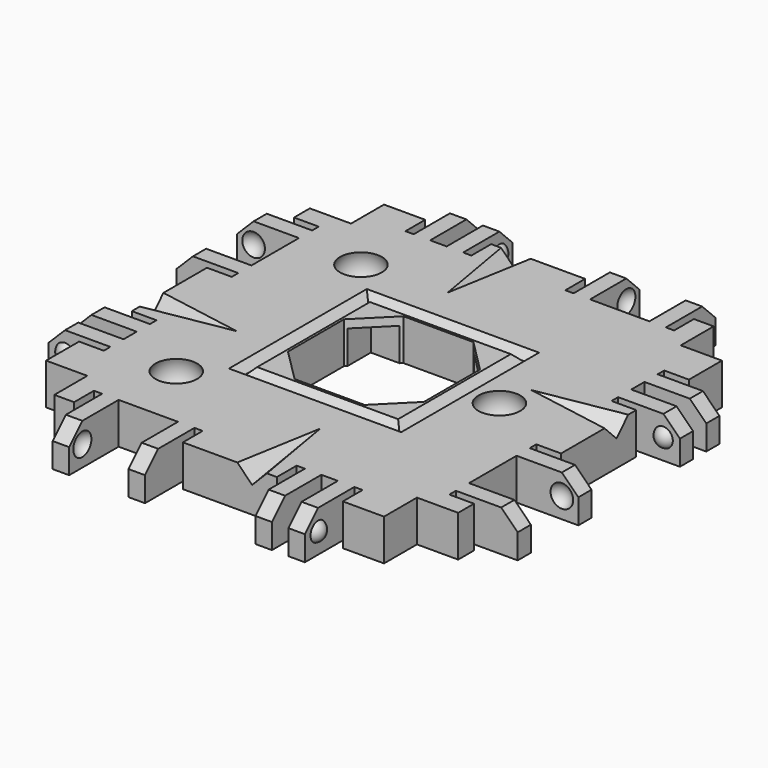
from build123d import *

# Parameters (mm, degrees)
BOX208_W               = 10
BOX208_H               = 15
BOX208_DEPTH           = 10
BOX208_ROLL_ANGLE      = 14.001942
BOX208_PITCH_ANGLE     = -44.136029
BOX208_PLACEMENT_ANGLE = -99.851076
BOX207_W               = 10
BOX207_H               = 15
BOX207_DEPTH           = 10
BOX207_ROLL_ANGLE      = 14.001942
BOX207_PITCH_ANGLE     = -44.136029
BOX207_PLACEMENT_ANGLE = 170.148924
BOX206_W               = 10
BOX206_H               = 15
BOX206_DEPTH           = 10
BOX206_ROLL_ANGLE      = 14.001942
BOX206_PITCH_ANGLE     = -44.136029
BOX206_PLACEMENT_ANGLE = 80.148924
BOX086_W               = 10
BOX086_H               = 15
BOX086_DEPTH           = 10
BOX086_ROLL_ANGLE      = 14.001942
BOX086_PITCH_ANGLE     = -44.136029
BOX086_PLACEMENT_ANGLE = -9.851076
CYLINDER025_R          = 1.7
CYLINDER025_DEPTH      = 10
CYLINDER026_R          = 1.7
CYLINDER026_DEPTH      = 10
CYLINDER024_R          = 1.7
CYLINDER024_DEPTH      = 10
BOX085_W               = 16
BOX085_H               = 16
BOX085_DEPTH           = 15
BOX076_W               = 16.5
BOX076_H               = 16.5
BOX076_DEPTH           = 15
CHAMFER008_SIZE        = 4
BOX084_W               = 17
BOX084_H               = 17
BOX084_DEPTH           = 14
BOX083_W               = 21
BOX083_H               = 21
BOX083_DEPTH           = 10
CHAMFER007_SIZE        = 0.95
BOX_W                  = 40
BOX_H                  = 40
BOX_DEPTH              = 5
BOX169_W               = 13
BOX169_H               = 40
BOX169_DEPTH           = 10
BOX169_PITCH_ANGLE     = -45
BOX177_W               = 12
BOX177_H               = 44
BOX177_DEPTH           = 10
BOX176_W               = 20
BOX176_H               = 44
BOX176_DEPTH           = 10
BOX172_W               = 4
BOX172_H               = 1
BOX172_DEPTH           = 7
BOX174_W               = 4
BOX174_H               = 1
BOX174_DEPTH           = 7
BOX171_W               = 4
BOX171_H               = 2
BOX171_DEPTH           = 7
BOX173_W               = 4
BOX173_H               = 1
BOX173_DEPTH           = 7
BOX170_W               = 4
BOX170_H               = 1
BOX170_DEPTH           = 7
BOX175_W               = 4
BOX175_H               = 7.2
BOX175_DEPTH           = 7
BOX165_W               = 10
BOX165_H               = 2
BOX165_DEPTH           = 7
BOX166_W               = 10
BOX166_H               = 2
BOX166_DEPTH           = 7
BOX167_W               = 10
BOX167_H               = 2
BOX167_DEPTH           = 7
BOX168_W               = 10
BOX168_H               = 2
BOX168_DEPTH           = 7
BOX164_W               = 5
BOX164_H               = 40
BOX164_DEPTH           = 7
CUT069_PLACEMENT_ANGLE = 90
BOX191_W               = 13
BOX191_H               = 40
BOX191_DEPTH           = 10
BOX191_PITCH_ANGLE     = -45
BOX187_W               = 12
BOX187_H               = 44
BOX187_DEPTH           = 10
BOX180_W               = 20
BOX180_H               = 44
BOX180_DEPTH           = 10
BOX182_W               = 4
BOX182_H               = 1
BOX182_DEPTH           = 7
BOX184_W               = 4
BOX184_H               = 1
BOX184_DEPTH           = 7
BOX186_W               = 4
BOX186_H               = 2
BOX186_DEPTH           = 7
BOX185_W               = 4
BOX185_H               = 1
BOX185_DEPTH           = 7
BOX189_W               = 4
BOX189_H               = 1
BOX189_DEPTH           = 7
BOX181_W               = 4
BOX181_H               = 7.2
BOX181_DEPTH           = 7
BOX190_W               = 10
BOX190_H               = 2
BOX190_DEPTH           = 7
BOX179_W               = 10
BOX179_H               = 2
BOX179_DEPTH           = 7
BOX183_W               = 10
BOX183_H               = 2
BOX183_DEPTH           = 7
BOX188_W               = 10
BOX188_H               = 2
BOX188_DEPTH           = 7
BOX178_W               = 5
BOX178_H               = 40
BOX178_DEPTH           = 7
CUT074_PLACEMENT_ANGLE = 180
BOX193_W               = 13
BOX193_H               = 40
BOX193_DEPTH           = 10
BOX193_PITCH_ANGLE     = -45
BOX203_W               = 12
BOX203_H               = 44
BOX203_DEPTH           = 10
BOX194_W               = 20
BOX194_H               = 44
BOX194_DEPTH           = 10
BOX198_W               = 4
BOX198_H               = 1
BOX198_DEPTH           = 7
BOX204_W               = 4
BOX204_H               = 1
BOX204_DEPTH           = 7
BOX201_W               = 4
BOX201_H               = 2
BOX201_DEPTH           = 7
BOX200_W               = 4
BOX200_H               = 1
BOX200_DEPTH           = 7
BOX197_W               = 4
BOX197_H               = 1
BOX197_DEPTH           = 7
BOX199_W               = 4
BOX199_H               = 7.2
BOX199_DEPTH           = 7
BOX192_W               = 10
BOX192_H               = 2
BOX192_DEPTH           = 7
BOX195_W               = 10
BOX195_H               = 2
BOX195_DEPTH           = 7
BOX202_W               = 10
BOX202_H               = 2
BOX202_DEPTH           = 7
BOX205_W               = 10
BOX205_H               = 2
BOX205_DEPTH           = 7
BOX196_W               = 5
BOX196_H               = 40
BOX196_DEPTH           = 7
CUT079_PLACEMENT_ANGLE = -90
BOX006_W               = 13
BOX006_H               = 40
BOX006_DEPTH           = 10
BOX006_PITCH_ANGLE     = -45
BOX149_W               = 12
BOX149_H               = 44
BOX149_DEPTH           = 10
BOX013_W               = 20
BOX013_H               = 44
BOX013_DEPTH           = 10
BOX009_W               = 4
BOX009_H               = 1
BOX009_DEPTH           = 7
BOX011_W               = 4
BOX011_H               = 1
BOX011_DEPTH           = 7
BOX008_W               = 4
BOX008_H               = 2
BOX008_DEPTH           = 7
BOX010_W               = 4
BOX010_H               = 1
BOX010_DEPTH           = 7
BOX007_W               = 4
BOX007_H               = 1
BOX007_DEPTH           = 7
BOX012_W               = 4
BOX012_H               = 7.2
BOX012_DEPTH           = 7
BOX002_W               = 10
BOX002_H               = 2
BOX002_DEPTH           = 7
BOX003_W               = 10
BOX003_H               = 2
BOX003_DEPTH           = 7
BOX004_W               = 10
BOX004_H               = 2
BOX004_DEPTH           = 7
BOX005_W               = 10
BOX005_H               = 2
BOX005_DEPTH           = 7
BOX001_W               = 5
BOX001_H               = 40
BOX001_DEPTH           = 7


with BuildPart() as cube179:
    # Box208 → Box208 (new body)
    with BuildSketch(Plane.XY):
        with Locations((5, 7.5)):
            Rectangle(BOX208_W, BOX208_H)
    extrude(amount=BOX208_DEPTH)


with BuildPart() as cube179_1:
    # Box208 roll: moved
    add(cube179.part.rotate(Axis((0, 0, 0), (1, 0, 0)), BOX208_ROLL_ANGLE))


with BuildPart() as cube179_2:
    # Box208 pitch: moved
    add(cube179_1.part.rotate(Axis((0, 0, 0), (0, 1, 0)), BOX208_PITCH_ANGLE))


with BuildPart() as cube179_3:
    # Box208 placement: moved
    add(cube179_2.part.moved(Location((-6, 16, 1))).rotate(Axis((-6, 16, 1), (0, 0, 1)), BOX208_PLACEMENT_ANGLE))


with BuildPart() as cube178:
    # Box207 → Box207 (new body)
    with BuildSketch(Plane.XY):
        with Locations((5, 7.5)):
            Rectangle(BOX207_W, BOX207_H)
    extrude(amount=BOX207_DEPTH)


with BuildPart() as cube178_1:
    # Box207 roll: moved
    add(cube178.part.rotate(Axis((0, 0, 0), (1, 0, 0)), BOX207_ROLL_ANGLE))


with BuildPart() as cube178_2:
    # Box207 pitch: moved
    add(cube178_1.part.rotate(Axis((0, 0, 0), (0, 1, 0)), BOX207_PITCH_ANGLE))


with BuildPart() as cube178_3:
    # Box207 placement: moved
    add(cube178_2.part.moved(Location((16, 46, 1))).rotate(Axis((16, 46, 1), (0, 0, 1)), BOX207_PLACEMENT_ANGLE))


with BuildPart() as cube177:
    # Box206 → Box206 (new body)
    with BuildSketch(Plane.XY):
        with Locations((5, 7.5)):
            Rectangle(BOX206_W, BOX206_H)
    extrude(amount=BOX206_DEPTH)


with BuildPart() as cube177_1:
    # Box206 roll: moved
    add(cube177.part.rotate(Axis((0, 0, 0), (1, 0, 0)), BOX206_ROLL_ANGLE))


with BuildPart() as cube177_2:
    # Box206 pitch: moved
    add(cube177_1.part.rotate(Axis((0, 0, 0), (0, 1, 0)), BOX206_PITCH_ANGLE))


with BuildPart() as cube177_3:
    # Box206 placement: moved
    add(cube177_2.part.moved(Location((46, 24, 1))).rotate(Axis((46, 24, 1), (0, 0, 1)), BOX206_PLACEMENT_ANGLE))


with BuildPart() as glue_dents:
    # Box086 → Box086 (new body)
    with BuildSketch(Plane.XY):
        with Locations((5, 7.5)):
            Rectangle(BOX086_W, BOX086_H)
    extrude(amount=BOX086_DEPTH)


with BuildPart() as glue_dents_1:
    # Box086 roll: moved
    add(glue_dents.part.rotate(Axis((0, 0, 0), (1, 0, 0)), BOX086_ROLL_ANGLE))


with BuildPart() as glue_dents_2:
    # Box086 pitch: moved
    add(glue_dents_1.part.rotate(Axis((0, 0, 0), (0, 1, 0)), BOX086_PITCH_ANGLE))


with BuildPart() as glue_dents_3:
    # Box086 placement: moved
    add(glue_dents_2.part.moved(Location((24, -6, 1))).rotate(Axis((24, -6, 1), (0, 0, 1)), BOX086_PLACEMENT_ANGLE))

    # Fusion078: union Cube179, Cube178, Cube177
    add(cube179_3.part)
    add(cube178_3.part)
    add(cube177_3.part)


with BuildPart() as cylinder025:
    # Cylinder025 → Cylinder025 (new body)
    with BuildSketch(Plane(origin=(34, 20, -5), x_dir=(1, 0, 0), z_dir=(0, 0, 1))):
        Circle(CYLINDER025_R)
    extrude(amount=CYLINDER025_DEPTH)


with BuildPart() as cylinder026:
    # Cylinder026 → Cylinder026 (new body)
    with BuildSketch(Plane(origin=(6, 34, -5), x_dir=(1, 0, 0), z_dir=(0, 0, 1))):
        Circle(CYLINDER026_R)
    extrude(amount=CYLINDER026_DEPTH)


with BuildPart() as screw_holes_to_remove_ball_mags:
    # Cylinder024 → Cylinder024 (new body)
    with BuildSketch(Plane(origin=(6, 6, -5), x_dir=(1, 0, 0), z_dir=(0, 0, 1))):
        Circle(CYLINDER024_R)
    extrude(amount=CYLINDER024_DEPTH)

    # Fusion052: union Cylinder025, Cylinder026
    add(cylinder025.part)
    add(cylinder026.part)


with BuildPart() as cube069:
    # Box085 → Box085 (new body)
    with BuildSketch(Plane(origin=(12, 12, -13), x_dir=(1, 0, 0), z_dir=(0, 0, 1))):
        with Locations((8, 8)):
            Rectangle(BOX085_W, BOX085_H)
    extrude(amount=BOX085_DEPTH)


with BuildPart() as chamfer008:
    # Box076 → Box076 (new body)
    with BuildSketch(Plane(origin=(11.75, 11.75, -3), x_dir=(1, 0, 0), z_dir=(0, 0, 1))):
        with Locations((8.25, 8.25)):
            Rectangle(BOX076_W, BOX076_H)
    extrude(amount=BOX076_DEPTH)

    # Chamfer008
    chamfer008_edges = [chamfer008.edges().sort_by_distance(p)[0] for p in [
        (11.75, 11.75, 4.5),
        (11.75, 28.25, 4.5),
        (28.25, 11.75, 4.5),
        (28.25, 28.25, 4.5),
    ]]
    chamfer(chamfer008_edges, length=CHAMFER008_SIZE)


with BuildPart() as cube068:
    # Box084 → Box084 (new body)
    with BuildSketch(Plane(origin=(11.5, 11.5, 0), x_dir=(1, 0, 0), z_dir=(0, 0, 1))):
        with Locations((8.5, 8.5)):
            Rectangle(BOX084_W, BOX084_H)
    extrude(amount=BOX084_DEPTH)


with BuildPart() as chamfer007:
    # Box083 → Box083 (new body)
    with BuildSketch(Plane(origin=(9.5, 9.5, 2.1), x_dir=(1, 0, 0), z_dir=(0, 0, 1))):
        with Locations((10.5, 10.5)):
            Rectangle(BOX083_W, BOX083_H)
    extrude(amount=BOX083_DEPTH)

    # Cut020: cut Cube068
    add(cube068.part, mode=Mode.SUBTRACT)

    # Chamfer007
    chamfer007_edges = [chamfer007.edges().sort_by_distance(p)[0] for p in [
        (9.5, 20, 2.1),
        (20, 9.5, 2.1),
        (20, 30.5, 2.1),
        (30.5, 20, 2.1),
        (20, 11.5, 2.1),
        (28.5, 20, 2.1),
        (20, 28.5, 2.1),
        (11.5, 20, 2.1),
    ]]
    chamfer(chamfer007_edges, length=CHAMFER007_SIZE)


with BuildPart() as sphere005:
    # Sphere005 → Sphere005 (revolve)
    with BuildSketch(Plane(origin=(34, 20, 1.7), x_dir=(1, 0, 0), z_dir=(0, -1, 0))):
        with BuildLine():
            ThreePointArc((0, -2.85), (2.85, 0), (0, 2.85))
            Line((0, 2.85), (0, -2.85))
        make_face()
    revolve(axis=Axis((34, 20, 1.7), (0, 0, 1)))


with BuildPart() as sphere003:
    # Sphere003 → Sphere003 (revolve)
    with BuildSketch(Plane(origin=(6, 34, 1.7), x_dir=(1, 0, 0), z_dir=(0, -1, 0))):
        with BuildLine():
            ThreePointArc((0, -2.85), (2.85, 0), (0, 2.85))
            Line((0, 2.85), (0, -2.85))
        make_face()
    revolve(axis=Axis((6, 34, 1.7), (0, 0, 1)))


with BuildPart() as fusion004:
    # Sphere → Sphere (revolve)
    with BuildSketch(Plane(origin=(6, 6, 1.7), x_dir=(1, 0, 0), z_dir=(0, -1, 0))):
        with BuildLine():
            ThreePointArc((0, -2.85), (2.85, 0), (0, 2.85))
            Line((0, 2.85), (0, -2.85))
        make_face()
    revolve(axis=Axis((6, 6, 1.7), (0, 0, 1)))

    # Fusion004: union Sphere005, Sphere003
    add(sphere005.part)
    add(sphere003.part)


with BuildPart() as cut080:
    # Box → Box (new body)
    with BuildSketch(Plane.XY.offset(-2)):
        with Locations((20, 20)):
            Rectangle(BOX_W, BOX_H)
    extrude(amount=BOX_DEPTH)

    # Cut003: cut Fusion004
    add(fusion004.part, mode=Mode.SUBTRACT)

    # Cut047: cut Chamfer007
    add(chamfer007.part, mode=Mode.SUBTRACT)

    # Cut048: cut Chamfer008
    add(chamfer008.part, mode=Mode.SUBTRACT)

    # Cut049: cut Cube069
    add(cube069.part, mode=Mode.SUBTRACT)

    # Cut080: cut Screw Holes to remove ball mags
    add(screw_holes_to_remove_ball_mags.part, mode=Mode.SUBTRACT)


with BuildPart() as chamfer_cube002:
    # Box169 → Box169 (new body)
    with BuildSketch(Plane.XY):
        with Locations((6.5, 20)):
            Rectangle(BOX169_W, BOX169_H)
    extrude(amount=BOX169_DEPTH)


with BuildPart() as chamfer_cube002_1:
    # Box169 pitch: moved
    add(chamfer_cube002.part.rotate(Axis((0, 0, 0), (0, 1, 0)), BOX169_PITCH_ANGLE))


with BuildPart() as chamfer_cube002_2:
    # Box169 placement: moved
    add(chamfer_cube002_1.part.moved(Location((-11.69, 0, -1.19))))


with BuildPart() as re_level_edge_clip_block005:
    # Box177 → Box177 (new body)
    with BuildSketch(Plane(origin=(-21.5, -2, -7), x_dir=(1, 0, 0), z_dir=(0, 0, 1))):
        with Locations((6, 22)):
            Rectangle(BOX177_W, BOX177_H)
    extrude(amount=BOX177_DEPTH)


with BuildPart() as re_level_edge_clip_block004:
    # Box176 → Box176 (new body)
    with BuildSketch(Plane(origin=(-19, -2, 3), x_dir=(1, 0, 0), z_dir=(0, 0, 1))):
        with Locations((10, 22)):
            Rectangle(BOX176_W, BOX176_H)
    extrude(amount=BOX176_DEPTH)


with BuildPart() as cube151:
    # Box172 → Box172 (new body)
    with BuildSketch(Plane(origin=(-6, 12, -2), x_dir=(1, 0, 0), z_dir=(0, 0, 1))):
        with Locations((2, 0.5)):
            Rectangle(BOX172_W, BOX172_H)
    extrude(amount=BOX172_DEPTH)


with BuildPart() as cube153:
    # Box174 → Box174 (new body)
    with BuildSketch(Plane(origin=(-6, 36.6, -2), x_dir=(1, 0, 0), z_dir=(0, 0, 1))):
        with Locations((2, 0.5)):
            Rectangle(BOX174_W, BOX174_H)
    extrude(amount=BOX174_DEPTH)


with BuildPart() as cube150:
    # Box171 → Box171 (new body)
    with BuildSketch(Plane(origin=(-6, 8, -2), x_dir=(1, 0, 0), z_dir=(0, 0, 1))):
        with Locations((2, 1)):
            Rectangle(BOX171_W, BOX171_H)
    extrude(amount=BOX171_DEPTH)


with BuildPart() as cube152:
    # Box173 → Box173 (new body)
    with BuildSketch(Plane(origin=(-6, 24.4, -2), x_dir=(1, 0, 0), z_dir=(0, 0, 1))):
        with Locations((2, 0.5)):
            Rectangle(BOX173_W, BOX173_H)
    extrude(amount=BOX173_DEPTH)


with BuildPart() as cube149:
    # Box170 → Box170 (new body)
    with BuildSketch(Plane(origin=(-6, 5, -2), x_dir=(1, 0, 0), z_dir=(0, 0, 1))):
        with Locations((2, 0.5)):
            Rectangle(BOX170_W, BOX170_H)
    extrude(amount=BOX170_DEPTH)


with BuildPart() as extra_holes_for_clips002:
    # Box175 → Box175 (new body)
    with BuildSketch(Plane(origin=(-6, 27.4, -2), x_dir=(1, 0, 0), z_dir=(0, 0, 1))):
        with Locations((2, 3.6)):
            Rectangle(BOX175_W, BOX175_H)
    extrude(amount=BOX175_DEPTH)

    # Fusion061: union Cube151, Cube153, Cube150, Cube152, Cube149
    add(cube151.part)
    add(cube153.part)
    add(cube150.part)
    add(cube152.part)
    add(cube149.part)


with BuildPart() as sphere058:
    # Sphere058 → Sphere058 (revolve)
    with BuildSketch(Plane(origin=(-7.5, 34, 0.5), x_dir=(1, 0, 0), z_dir=(0, -1, 0))):
        with BuildLine():
            ThreePointArc((0, -1.5), (1.5, 0), (0, 1.5))
            Line((0, 1.5), (0, -1.5))
        make_face()
    revolve(axis=Axis((-7.5, 34, 0.5), (0, 0, 1)))


with BuildPart() as holes002:
    # Sphere057 → Sphere057 (revolve)
    with BuildSketch(Plane(origin=(-7.5, 28, 0.5), x_dir=(1, 0, 0), z_dir=(0, -1, 0))):
        with BuildLine():
            ThreePointArc((0, -1.5), (1.5, 0), (0, 1.5))
            Line((0, 1.5), (0, -1.5))
        make_face()
    revolve(axis=Axis((-7.5, 28, 0.5), (0, 0, 1)))

    # Fusion063: union Sphere058
    add(sphere058.part)


with BuildPart() as cube145:
    # Box165 → Box165 (new body)
    with BuildSketch(Plane(origin=(-15, 6, -2), x_dir=(1, 0, 0), z_dir=(0, 0, 1))):
        with Locations((5, 1)):
            Rectangle(BOX165_W, BOX165_H)
    extrude(amount=BOX165_DEPTH)


with BuildPart() as cube146:
    # Box166 → Box166 (new body)
    with BuildSketch(Plane(origin=(-15, 10, -2), x_dir=(1, 0, 0), z_dir=(0, 0, 1))):
        with Locations((5, 1)):
            Rectangle(BOX166_W, BOX166_H)
    extrude(amount=BOX166_DEPTH)


with BuildPart() as cube147:
    # Box167 → Box167 (new body)
    with BuildSketch(Plane(origin=(-15, 25.4, -2), x_dir=(1, 0, 0), z_dir=(0, 0, 1))):
        with Locations((5, 1)):
            Rectangle(BOX167_W, BOX167_H)
    extrude(amount=BOX167_DEPTH)


with BuildPart() as cube148:
    # Box168 → Box168 (new body)
    with BuildSketch(Plane(origin=(-15, 34.6, -2), x_dir=(1, 0, 0), z_dir=(0, 0, 1))):
        with Locations((5, 1)):
            Rectangle(BOX168_W, BOX168_H)
    extrude(amount=BOX168_DEPTH)


with BuildPart() as fusion064:
    # Box164 → Box164 (new body)
    with BuildSketch(Plane(origin=(-5, 0, -2), x_dir=(1, 0, 0), z_dir=(0, 0, 1))):
        with Locations((2.5, 20)):
            Rectangle(BOX164_W, BOX164_H)
    extrude(amount=BOX164_DEPTH)

    # Fusion064: union Cube145, Cube146, Cube147, Cube148
    add(cube145.part)
    add(cube146.part)
    add(cube147.part)
    add(cube148.part)


with BuildPart() as sphere056:
    # Sphere056 → Sphere056 (revolve)
    with BuildSketch(Plane(origin=(-7.5, 11.5, 0.5), x_dir=(1, 0, 0), z_dir=(0, -1, 0))):
        with BuildLine():
            ThreePointArc((0, -1.25), (1.25, 0), (0, 1.25))
            Line((0, 1.25), (0, -1.25))
        make_face()
    revolve(axis=Axis((-7.5, 11.5, 0.5), (0, 0, 1)))


with BuildPart() as edge_clips001:
    # Sphere055 → Sphere055 (revolve)
    with BuildSketch(Plane(origin=(-7.5, 6.5, 0.5), x_dir=(1, 0, 0), z_dir=(0, -1, 0))):
        with BuildLine():
            ThreePointArc((0, -1.25), (1.25, 0), (0, 1.25))
            Line((0, 1.25), (0, -1.25))
        make_face()
    revolve(axis=Axis((-7.5, 6.5, 0.5), (0, 0, 1)))

    # Fusion062: union Sphere056
    add(sphere056.part)

    # Fusion065: union Fusion064
    add(fusion064.part)

    # Cut065: cut Holes002
    add(holes002.part, mode=Mode.SUBTRACT)

    # Cut066: cut Extra Holes for Clips002
    add(extra_holes_for_clips002.part, mode=Mode.SUBTRACT)

    # Cut067: cut Re-level Edge Clip Block004
    add(re_level_edge_clip_block004.part, mode=Mode.SUBTRACT)

    # Cut068: cut Re-level Edge Clip Block005
    add(re_level_edge_clip_block005.part, mode=Mode.SUBTRACT)

    # Cut069: cut Chamfer Cube002
    add(chamfer_cube002_2.part, mode=Mode.SUBTRACT)


with BuildPart() as edge_clips001_1:
    # Cut069 placement: moved
    add(edge_clips001.part.moved(Location((40, 0, 0))).rotate(Axis((40, 0, 0), (0, 0, 1)), CUT069_PLACEMENT_ANGLE))


with BuildPart() as chamfer_cube003:
    # Box191 → Box191 (new body)
    with BuildSketch(Plane.XY):
        with Locations((6.5, 20)):
            Rectangle(BOX191_W, BOX191_H)
    extrude(amount=BOX191_DEPTH)


with BuildPart() as chamfer_cube003_1:
    # Box191 pitch: moved
    add(chamfer_cube003.part.rotate(Axis((0, 0, 0), (0, 1, 0)), BOX191_PITCH_ANGLE))


with BuildPart() as chamfer_cube003_2:
    # Box191 placement: moved
    add(chamfer_cube003_1.part.moved(Location((-11.69, 0, -1.19))))


with BuildPart() as re_level_edge_clip_block007:
    # Box187 → Box187 (new body)
    with BuildSketch(Plane(origin=(-21.5, -2, -7), x_dir=(1, 0, 0), z_dir=(0, 0, 1))):
        with Locations((6, 22)):
            Rectangle(BOX187_W, BOX187_H)
    extrude(amount=BOX187_DEPTH)


with BuildPart() as re_level_edge_clip_block006:
    # Box180 → Box180 (new body)
    with BuildSketch(Plane(origin=(-19, -2, 3), x_dir=(1, 0, 0), z_dir=(0, 0, 1))):
        with Locations((10, 22)):
            Rectangle(BOX180_W, BOX180_H)
    extrude(amount=BOX180_DEPTH)


with BuildPart() as cube158:
    # Box182 → Box182 (new body)
    with BuildSketch(Plane(origin=(-6, 12, -2), x_dir=(1, 0, 0), z_dir=(0, 0, 1))):
        with Locations((2, 0.5)):
            Rectangle(BOX182_W, BOX182_H)
    extrude(amount=BOX182_DEPTH)


with BuildPart() as cube160:
    # Box184 → Box184 (new body)
    with BuildSketch(Plane(origin=(-6, 36.6, -2), x_dir=(1, 0, 0), z_dir=(0, 0, 1))):
        with Locations((2, 0.5)):
            Rectangle(BOX184_W, BOX184_H)
    extrude(amount=BOX184_DEPTH)


with BuildPart() as cube162:
    # Box186 → Box186 (new body)
    with BuildSketch(Plane(origin=(-6, 8, -2), x_dir=(1, 0, 0), z_dir=(0, 0, 1))):
        with Locations((2, 1)):
            Rectangle(BOX186_W, BOX186_H)
    extrude(amount=BOX186_DEPTH)


with BuildPart() as cube161:
    # Box185 → Box185 (new body)
    with BuildSketch(Plane(origin=(-6, 24.4, -2), x_dir=(1, 0, 0), z_dir=(0, 0, 1))):
        with Locations((2, 0.5)):
            Rectangle(BOX185_W, BOX185_H)
    extrude(amount=BOX185_DEPTH)


with BuildPart() as cube164:
    # Box189 → Box189 (new body)
    with BuildSketch(Plane(origin=(-6, 5, -2), x_dir=(1, 0, 0), z_dir=(0, 0, 1))):
        with Locations((2, 0.5)):
            Rectangle(BOX189_W, BOX189_H)
    extrude(amount=BOX189_DEPTH)


with BuildPart() as extra_holes_for_clips003:
    # Box181 → Box181 (new body)
    with BuildSketch(Plane(origin=(-6, 27.4, -2), x_dir=(1, 0, 0), z_dir=(0, 0, 1))):
        with Locations((2, 3.6)):
            Rectangle(BOX181_W, BOX181_H)
    extrude(amount=BOX181_DEPTH)

    # Fusion067: union Cube158, Cube160, Cube162, Cube161, Cube164
    add(cube158.part)
    add(cube160.part)
    add(cube162.part)
    add(cube161.part)
    add(cube164.part)


with BuildPart() as sphere060:
    # Sphere060 → Sphere060 (revolve)
    with BuildSketch(Plane(origin=(-7.5, 34, 0.5), x_dir=(1, 0, 0), z_dir=(0, -1, 0))):
        with BuildLine():
            ThreePointArc((0, -1.5), (1.5, 0), (0, 1.5))
            Line((0, 1.5), (0, -1.5))
        make_face()
    revolve(axis=Axis((-7.5, 34, 0.5), (0, 0, 1)))


with BuildPart() as holes003:
    # Sphere062 → Sphere062 (revolve)
    with BuildSketch(Plane(origin=(-7.5, 28, 0.5), x_dir=(1, 0, 0), z_dir=(0, -1, 0))):
        with BuildLine():
            ThreePointArc((0, -1.5), (1.5, 0), (0, 1.5))
            Line((0, 1.5), (0, -1.5))
        make_face()
    revolve(axis=Axis((-7.5, 28, 0.5), (0, 0, 1)))

    # Fusion066: union Sphere060
    add(sphere060.part)


with BuildPart() as cube165:
    # Box190 → Box190 (new body)
    with BuildSketch(Plane(origin=(-15, 6, -2), x_dir=(1, 0, 0), z_dir=(0, 0, 1))):
        with Locations((5, 1)):
            Rectangle(BOX190_W, BOX190_H)
    extrude(amount=BOX190_DEPTH)


with BuildPart() as cube156:
    # Box179 → Box179 (new body)
    with BuildSketch(Plane(origin=(-15, 10, -2), x_dir=(1, 0, 0), z_dir=(0, 0, 1))):
        with Locations((5, 1)):
            Rectangle(BOX179_W, BOX179_H)
    extrude(amount=BOX179_DEPTH)


with BuildPart() as cube159:
    # Box183 → Box183 (new body)
    with BuildSketch(Plane(origin=(-15, 25.4, -2), x_dir=(1, 0, 0), z_dir=(0, 0, 1))):
        with Locations((5, 1)):
            Rectangle(BOX183_W, BOX183_H)
    extrude(amount=BOX183_DEPTH)


with BuildPart() as cube163:
    # Box188 → Box188 (new body)
    with BuildSketch(Plane(origin=(-15, 34.6, -2), x_dir=(1, 0, 0), z_dir=(0, 0, 1))):
        with Locations((5, 1)):
            Rectangle(BOX188_W, BOX188_H)
    extrude(amount=BOX188_DEPTH)


with BuildPart() as fusion069:
    # Box178 → Box178 (new body)
    with BuildSketch(Plane(origin=(-5, 0, -2), x_dir=(1, 0, 0), z_dir=(0, 0, 1))):
        with Locations((2.5, 20)):
            Rectangle(BOX178_W, BOX178_H)
    extrude(amount=BOX178_DEPTH)

    # Fusion069: union Cube165, Cube156, Cube159, Cube163
    add(cube165.part)
    add(cube156.part)
    add(cube159.part)
    add(cube163.part)


with BuildPart() as sphere061:
    # Sphere061 → Sphere061 (revolve)
    with BuildSketch(Plane(origin=(-7.5, 11.5, 0.5), x_dir=(1, 0, 0), z_dir=(0, -1, 0))):
        with BuildLine():
            ThreePointArc((0, -1.25), (1.25, 0), (0, 1.25))
            Line((0, 1.25), (0, -1.25))
        make_face()
    revolve(axis=Axis((-7.5, 11.5, 0.5), (0, 0, 1)))


with BuildPart() as edge_clips002:
    # Sphere059 → Sphere059 (revolve)
    with BuildSketch(Plane(origin=(-7.5, 6.5, 0.5), x_dir=(1, 0, 0), z_dir=(0, -1, 0))):
        with BuildLine():
            ThreePointArc((0, -1.25), (1.25, 0), (0, 1.25))
            Line((0, 1.25), (0, -1.25))
        make_face()
    revolve(axis=Axis((-7.5, 6.5, 0.5), (0, 0, 1)))

    # Fusion070: union Sphere061
    add(sphere061.part)

    # Fusion068: union Fusion069
    add(fusion069.part)

    # Cut073: cut Holes003
    add(holes003.part, mode=Mode.SUBTRACT)

    # Cut070: cut Extra Holes for Clips003
    add(extra_holes_for_clips003.part, mode=Mode.SUBTRACT)

    # Cut071: cut Re-level Edge Clip Block006
    add(re_level_edge_clip_block006.part, mode=Mode.SUBTRACT)

    # Cut072: cut Re-level Edge Clip Block007
    add(re_level_edge_clip_block007.part, mode=Mode.SUBTRACT)

    # Cut074: cut Chamfer Cube003
    add(chamfer_cube003_2.part, mode=Mode.SUBTRACT)


with BuildPart() as edge_clips002_1:
    # Cut074 placement: moved
    add(edge_clips002.part.moved(Location((40, 40, 0))).rotate(Axis((40, 40, 0), (0, 0, 1)), CUT074_PLACEMENT_ANGLE))


with BuildPart() as chamfer_cube004:
    # Box193 → Box193 (new body)
    with BuildSketch(Plane.XY):
        with Locations((6.5, 20)):
            Rectangle(BOX193_W, BOX193_H)
    extrude(amount=BOX193_DEPTH)


with BuildPart() as chamfer_cube004_1:
    # Box193 pitch: moved
    add(chamfer_cube004.part.rotate(Axis((0, 0, 0), (0, 1, 0)), BOX193_PITCH_ANGLE))


with BuildPart() as chamfer_cube004_2:
    # Box193 placement: moved
    add(chamfer_cube004_1.part.moved(Location((-11.69, 0, -1.19))))


with BuildPart() as re_level_edge_clip_block009:
    # Box203 → Box203 (new body)
    with BuildSketch(Plane(origin=(-21.5, -2, -7), x_dir=(1, 0, 0), z_dir=(0, 0, 1))):
        with Locations((6, 22)):
            Rectangle(BOX203_W, BOX203_H)
    extrude(amount=BOX203_DEPTH)


with BuildPart() as re_level_edge_clip_block008:
    # Box194 → Box194 (new body)
    with BuildSketch(Plane(origin=(-19, -2, 3), x_dir=(1, 0, 0), z_dir=(0, 0, 1))):
        with Locations((10, 22)):
            Rectangle(BOX194_W, BOX194_H)
    extrude(amount=BOX194_DEPTH)


with BuildPart() as cube170:
    # Box198 → Box198 (new body)
    with BuildSketch(Plane(origin=(-6, 12, -2), x_dir=(1, 0, 0), z_dir=(0, 0, 1))):
        with Locations((2, 0.5)):
            Rectangle(BOX198_W, BOX198_H)
    extrude(amount=BOX198_DEPTH)


with BuildPart() as cube175:
    # Box204 → Box204 (new body)
    with BuildSketch(Plane(origin=(-6, 36.6, -2), x_dir=(1, 0, 0), z_dir=(0, 0, 1))):
        with Locations((2, 0.5)):
            Rectangle(BOX204_W, BOX204_H)
    extrude(amount=BOX204_DEPTH)


with BuildPart() as cube173:
    # Box201 → Box201 (new body)
    with BuildSketch(Plane(origin=(-6, 8, -2), x_dir=(1, 0, 0), z_dir=(0, 0, 1))):
        with Locations((2, 1)):
            Rectangle(BOX201_W, BOX201_H)
    extrude(amount=BOX201_DEPTH)


with BuildPart() as cube172:
    # Box200 → Box200 (new body)
    with BuildSketch(Plane(origin=(-6, 24.4, -2), x_dir=(1, 0, 0), z_dir=(0, 0, 1))):
        with Locations((2, 0.5)):
            Rectangle(BOX200_W, BOX200_H)
    extrude(amount=BOX200_DEPTH)


with BuildPart() as cube169:
    # Box197 → Box197 (new body)
    with BuildSketch(Plane(origin=(-6, 5, -2), x_dir=(1, 0, 0), z_dir=(0, 0, 1))):
        with Locations((2, 0.5)):
            Rectangle(BOX197_W, BOX197_H)
    extrude(amount=BOX197_DEPTH)


with BuildPart() as extra_holes_for_clips004:
    # Box199 → Box199 (new body)
    with BuildSketch(Plane(origin=(-6, 27.4, -2), x_dir=(1, 0, 0), z_dir=(0, 0, 1))):
        with Locations((2, 3.6)):
            Rectangle(BOX199_W, BOX199_H)
    extrude(amount=BOX199_DEPTH)

    # Fusion074: union Cube170, Cube175, Cube173, Cube172, Cube169
    add(cube170.part)
    add(cube175.part)
    add(cube173.part)
    add(cube172.part)
    add(cube169.part)


with BuildPart() as sphere066:
    # Sphere066 → Sphere066 (revolve)
    with BuildSketch(Plane(origin=(-7.5, 34, 0.5), x_dir=(1, 0, 0), z_dir=(0, -1, 0))):
        with BuildLine():
            ThreePointArc((0, -1.5), (1.5, 0), (0, 1.5))
            Line((0, 1.5), (0, -1.5))
        make_face()
    revolve(axis=Axis((-7.5, 34, 0.5), (0, 0, 1)))


with BuildPart() as holes004:
    # Sphere063 → Sphere063 (revolve)
    with BuildSketch(Plane(origin=(-7.5, 28, 0.5), x_dir=(1, 0, 0), z_dir=(0, -1, 0))):
        with BuildLine():
            ThreePointArc((0, -1.5), (1.5, 0), (0, 1.5))
            Line((0, 1.5), (0, -1.5))
        make_face()
    revolve(axis=Axis((-7.5, 28, 0.5), (0, 0, 1)))

    # Fusion071: union Sphere066
    add(sphere066.part)


with BuildPart() as cube166:
    # Box192 → Box192 (new body)
    with BuildSketch(Plane(origin=(-15, 6, -2), x_dir=(1, 0, 0), z_dir=(0, 0, 1))):
        with Locations((5, 1)):
            Rectangle(BOX192_W, BOX192_H)
    extrude(amount=BOX192_DEPTH)


with BuildPart() as cube167:
    # Box195 → Box195 (new body)
    with BuildSketch(Plane(origin=(-15, 10, -2), x_dir=(1, 0, 0), z_dir=(0, 0, 1))):
        with Locations((5, 1)):
            Rectangle(BOX195_W, BOX195_H)
    extrude(amount=BOX195_DEPTH)


with BuildPart() as cube174:
    # Box202 → Box202 (new body)
    with BuildSketch(Plane(origin=(-15, 25.4, -2), x_dir=(1, 0, 0), z_dir=(0, 0, 1))):
        with Locations((5, 1)):
            Rectangle(BOX202_W, BOX202_H)
    extrude(amount=BOX202_DEPTH)


with BuildPart() as cube176:
    # Box205 → Box205 (new body)
    with BuildSketch(Plane(origin=(-15, 34.6, -2), x_dir=(1, 0, 0), z_dir=(0, 0, 1))):
        with Locations((5, 1)):
            Rectangle(BOX205_W, BOX205_H)
    extrude(amount=BOX205_DEPTH)


with BuildPart() as fusion072:
    # Box196 → Box196 (new body)
    with BuildSketch(Plane(origin=(-5, 0, -2), x_dir=(1, 0, 0), z_dir=(0, 0, 1))):
        with Locations((2.5, 20)):
            Rectangle(BOX196_W, BOX196_H)
    extrude(amount=BOX196_DEPTH)

    # Fusion072: union Cube166, Cube167, Cube174, Cube176
    add(cube166.part)
    add(cube167.part)
    add(cube174.part)
    add(cube176.part)


with BuildPart() as sphere064:
    # Sphere064 → Sphere064 (revolve)
    with BuildSketch(Plane(origin=(-7.5, 11.5, 0.5), x_dir=(1, 0, 0), z_dir=(0, -1, 0))):
        with BuildLine():
            ThreePointArc((0, -1.25), (1.25, 0), (0, 1.25))
            Line((0, 1.25), (0, -1.25))
        make_face()
    revolve(axis=Axis((-7.5, 11.5, 0.5), (0, 0, 1)))


with BuildPart() as edge_clips003:
    # Sphere065 → Sphere065 (revolve)
    with BuildSketch(Plane(origin=(-7.5, 6.5, 0.5), x_dir=(1, 0, 0), z_dir=(0, -1, 0))):
        with BuildLine():
            ThreePointArc((0, -1.25), (1.25, 0), (0, 1.25))
            Line((0, 1.25), (0, -1.25))
        make_face()
    revolve(axis=Axis((-7.5, 6.5, 0.5), (0, 0, 1)))

    # Fusion073: union Sphere064
    add(sphere064.part)

    # Fusion075: union Fusion072
    add(fusion072.part)

    # Cut075: cut Holes004
    add(holes004.part, mode=Mode.SUBTRACT)

    # Cut076: cut Extra Holes for Clips004
    add(extra_holes_for_clips004.part, mode=Mode.SUBTRACT)

    # Cut078: cut Re-level Edge Clip Block008
    add(re_level_edge_clip_block008.part, mode=Mode.SUBTRACT)

    # Cut077: cut Re-level Edge Clip Block009
    add(re_level_edge_clip_block009.part, mode=Mode.SUBTRACT)

    # Cut079: cut Chamfer Cube004
    add(chamfer_cube004_2.part, mode=Mode.SUBTRACT)


with BuildPart() as edge_clips003_1:
    # Cut079 placement: moved
    add(edge_clips003.part.moved(Location((0, 40, 0))).rotate(Axis((0, 40, 0), (0, 0, 1)), CUT079_PLACEMENT_ANGLE))


with BuildPart() as chamfer_cube:
    # Box006 → Box006 (new body)
    with BuildSketch(Plane.XY):
        with Locations((6.5, 20)):
            Rectangle(BOX006_W, BOX006_H)
    extrude(amount=BOX006_DEPTH)


with BuildPart() as chamfer_cube_1:
    # Box006 pitch: moved
    add(chamfer_cube.part.rotate(Axis((0, 0, 0), (0, 1, 0)), BOX006_PITCH_ANGLE))


with BuildPart() as chamfer_cube_2:
    # Box006 placement: moved
    add(chamfer_cube_1.part.moved(Location((-11.69, 0, -1.19))))


with BuildPart() as re_level_edge_clip_block001:
    # Box149 → Box149 (new body)
    with BuildSketch(Plane(origin=(-21.5, -2, -7), x_dir=(1, 0, 0), z_dir=(0, 0, 1))):
        with Locations((6, 22)):
            Rectangle(BOX149_W, BOX149_H)
    extrude(amount=BOX149_DEPTH)


with BuildPart() as re_level_edge_clip_block:
    # Box013 → Box013 (new body)
    with BuildSketch(Plane(origin=(-19, -2, 3), x_dir=(1, 0, 0), z_dir=(0, 0, 1))):
        with Locations((10, 22)):
            Rectangle(BOX013_W, BOX013_H)
    extrude(amount=BOX013_DEPTH)


with BuildPart() as cube009:
    # Box009 → Box009 (new body)
    with BuildSketch(Plane(origin=(-6, 12, -2), x_dir=(1, 0, 0), z_dir=(0, 0, 1))):
        with Locations((2, 0.5)):
            Rectangle(BOX009_W, BOX009_H)
    extrude(amount=BOX009_DEPTH)


with BuildPart() as cube011:
    # Box011 → Box011 (new body)
    with BuildSketch(Plane(origin=(-6, 36.6, -2), x_dir=(1, 0, 0), z_dir=(0, 0, 1))):
        with Locations((2, 0.5)):
            Rectangle(BOX011_W, BOX011_H)
    extrude(amount=BOX011_DEPTH)


with BuildPart() as cube008:
    # Box008 → Box008 (new body)
    with BuildSketch(Plane(origin=(-6, 8, -2), x_dir=(1, 0, 0), z_dir=(0, 0, 1))):
        with Locations((2, 1)):
            Rectangle(BOX008_W, BOX008_H)
    extrude(amount=BOX008_DEPTH)


with BuildPart() as cube010:
    # Box010 → Box010 (new body)
    with BuildSketch(Plane(origin=(-6, 24.4, -2), x_dir=(1, 0, 0), z_dir=(0, 0, 1))):
        with Locations((2, 0.5)):
            Rectangle(BOX010_W, BOX010_H)
    extrude(amount=BOX010_DEPTH)


with BuildPart() as cube007:
    # Box007 → Box007 (new body)
    with BuildSketch(Plane(origin=(-6, 5, -2), x_dir=(1, 0, 0), z_dir=(0, 0, 1))):
        with Locations((2, 0.5)):
            Rectangle(BOX007_W, BOX007_H)
    extrude(amount=BOX007_DEPTH)


with BuildPart() as extra_holes_for_clips:
    # Box012 → Box012 (new body)
    with BuildSketch(Plane(origin=(-6, 27.4, -2), x_dir=(1, 0, 0), z_dir=(0, 0, 1))):
        with Locations((2, 3.6)):
            Rectangle(BOX012_W, BOX012_H)
    extrude(amount=BOX012_DEPTH)

    # Fusion003: union Cube009, Cube011, Cube008, Cube010, Cube007
    add(cube009.part)
    add(cube011.part)
    add(cube008.part)
    add(cube010.part)
    add(cube007.part)


with BuildPart() as sphere011:
    # Sphere011 → Sphere011 (revolve)
    with BuildSketch(Plane(origin=(-7.5, 34, 0.5), x_dir=(1, 0, 0), z_dir=(0, -1, 0))):
        with BuildLine():
            ThreePointArc((0, -1.5), (1.5, 0), (0, 1.5))
            Line((0, 1.5), (0, -1.5))
        make_face()
    revolve(axis=Axis((-7.5, 34, 0.5), (0, 0, 1)))


with BuildPart() as holes:
    # Sphere010 → Sphere010 (revolve)
    with BuildSketch(Plane(origin=(-7.5, 28, 0.5), x_dir=(1, 0, 0), z_dir=(0, -1, 0))):
        with BuildLine():
            ThreePointArc((0, -1.5), (1.5, 0), (0, 1.5))
            Line((0, 1.5), (0, -1.5))
        make_face()
    revolve(axis=Axis((-7.5, 28, 0.5), (0, 0, 1)))

    # Fusion053: union Sphere011
    add(sphere011.part)


with BuildPart() as cube002:
    # Box002 → Box002 (new body)
    with BuildSketch(Plane(origin=(-15, 6, -2), x_dir=(1, 0, 0), z_dir=(0, 0, 1))):
        with Locations((5, 1)):
            Rectangle(BOX002_W, BOX002_H)
    extrude(amount=BOX002_DEPTH)


with BuildPart() as cube003:
    # Box003 → Box003 (new body)
    with BuildSketch(Plane(origin=(-15, 10, -2), x_dir=(1, 0, 0), z_dir=(0, 0, 1))):
        with Locations((5, 1)):
            Rectangle(BOX003_W, BOX003_H)
    extrude(amount=BOX003_DEPTH)


with BuildPart() as cube004:
    # Box004 → Box004 (new body)
    with BuildSketch(Plane(origin=(-15, 25.4, -2), x_dir=(1, 0, 0), z_dir=(0, 0, 1))):
        with Locations((5, 1)):
            Rectangle(BOX004_W, BOX004_H)
    extrude(amount=BOX004_DEPTH)


with BuildPart() as cube005:
    # Box005 → Box005 (new body)
    with BuildSketch(Plane(origin=(-15, 34.6, -2), x_dir=(1, 0, 0), z_dir=(0, 0, 1))):
        with Locations((5, 1)):
            Rectangle(BOX005_W, BOX005_H)
    extrude(amount=BOX005_DEPTH)


with BuildPart() as fusion054:
    # Box001 → Box001 (new body)
    with BuildSketch(Plane(origin=(-5, 0, -2), x_dir=(1, 0, 0), z_dir=(0, 0, 1))):
        with Locations((2.5, 20)):
            Rectangle(BOX001_W, BOX001_H)
    extrude(amount=BOX001_DEPTH)

    # Fusion054: union Cube002, Cube003, Cube004, Cube005
    add(cube002.part)
    add(cube003.part)
    add(cube004.part)
    add(cube005.part)


with BuildPart() as sphere009:
    # Sphere009 → Sphere009 (revolve)
    with BuildSketch(Plane(origin=(-7.5, 11.5, 0.5), x_dir=(1, 0, 0), z_dir=(0, -1, 0))):
        with BuildLine():
            ThreePointArc((0, -1.25), (1.25, 0), (0, 1.25))
            Line((0, 1.25), (0, -1.25))
        make_face()
    revolve(axis=Axis((-7.5, 11.5, 0.5), (0, 0, 1)))


with BuildPart() as ball_plate:
    # Sphere008 → Sphere008 (revolve)
    with BuildSketch(Plane(origin=(-7.5, 6.5, 0.5), x_dir=(1, 0, 0), z_dir=(0, -1, 0))):
        with BuildLine():
            ThreePointArc((0, -1.25), (1.25, 0), (0, 1.25))
            Line((0, 1.25), (0, -1.25))
        make_face()
    revolve(axis=Axis((-7.5, 6.5, 0.5), (0, 0, 1)))

    # Fusion: union Sphere009
    add(sphere009.part)

    # Fusion055: union Fusion054
    add(fusion054.part)

    # Cut: cut Holes
    add(holes.part, mode=Mode.SUBTRACT)

    # Cut056: cut Extra Holes for Clips
    add(extra_holes_for_clips.part, mode=Mode.SUBTRACT)

    # Cut057: cut Re-level Edge Clip Block
    add(re_level_edge_clip_block.part, mode=Mode.SUBTRACT)

    # Cut058: cut Re-level Edge Clip Block001
    add(re_level_edge_clip_block001.part, mode=Mode.SUBTRACT)

    # Cut059: cut Chamfer Cube
    add(chamfer_cube_2.part, mode=Mode.SUBTRACT)

    # Fusion076: union Edge Clips001, Edge Clips002, Edge Clips003
    add(edge_clips001_1.part)
    add(edge_clips002_1.part)
    add(edge_clips003_1.part)

    # Fusion077: union Cut080
    add(cut080.part)

    # Cut081: cut Glue Dents
    add(glue_dents_3.part, mode=Mode.SUBTRACT)


solid = ball_plate.part
